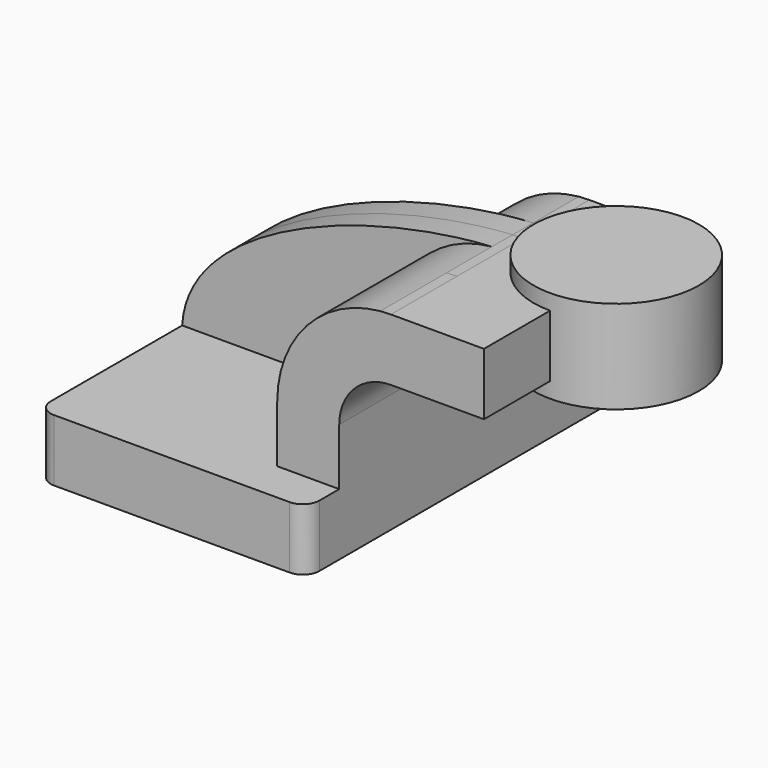
from build123d import *

# Parameters (mm, degrees)
F1_DEPTH = 63.5
F0_W     = 25.4
F0_H     = 19.05
F2_DEPTH = 25.4
F3_DEPTH = 7.9375
F5_R     = 5.08
F6_DEPTH = 25.4


with BuildPart() as f1:
    # F0 (on Front) → F1 (new body, symmetric)
    with BuildSketch(Plane.XZ):
        Polygon((22.225, 9.525), (-41.275, 9.525), (-41.275, -9.525), (41.275, -9.525), (41.275, 9.525), align=None)
    extrude(amount=F1_DEPTH, both=True)

    # F0 (on Front) → F2 (join, symmetric)
    with BuildSketch(Plane.XZ):
        with BuildLine():
            Line((22.225, 27.0002), (22.225, 9.525))
            Line((22.225, 9.525), (41.275, 9.525))
            Line((41.275, 9.525), (41.275, 27.0002))
            ThreePointArc((41.275, 27.0002), (45.9246798487, 38.2255201513), (57.15, 42.8752))
            Line((57.15, 42.8752), (60.325, 42.8752))
            Line((60.325, 42.8752), (60.325, 61.9252))
            Line((60.325, 61.9252), (57.15, 61.9252))
            add(Edge.make_bspline(
                [(53.8854342407, 61.7722898912), (54.9842067368, 61.8365871986), (56.0728453275, 61.8876096574), (57.15, 61.9252)],
                knots=[108.5245810491, 108.5245810491, 108.5245810491, 108.5245810491, 111.5045361635, 111.5045361635, 111.5045361635, 111.5045361635], degree=3))
            ThreePointArc((53.8854342407, 61.7722898912), (31.3258777096, 50.5133948686), (22.225, 27.0002))
        make_face()
        with Locations((73.025, 52.4002)):
            Rectangle(F0_W, F0_H)
    extrude(amount=F2_DEPTH, both=True)

    # F0 (on Front) → F3 (join, symmetric)
    with BuildSketch(Plane.XZ):
        with BuildLine():
            add(Edge.make_bspline(
                [(-41.275, 9.525), (-39.5856284224, 39.4828766469), (13.870125209, 59.4306981306), (53.8854342407, 61.7722898912)],
                knots=[0, 0, 0, 0, 108.5245810491, 108.5245810491, 108.5245810491, 108.5245810491], degree=3))
            Line((-41.275, 9.525), (22.225, 9.525))
            Line((22.225, 9.525), (22.225, 27.0002))
            ThreePointArc((22.225, 27.0002), (31.3258777096, 50.5133948686), (53.8854342407, 61.7722898912))
        make_face()
    extrude(amount=F3_DEPTH, both=True)

    # F0 (on Front) → F4 (revolve)
    with BuildSketch(Plane.XZ):
        Polygon((85.725, 66.675), (85.725, 61.9252), (85.725, 42.8752), (85.725, 38.1), (111.125, 38.1), (111.125, 66.675), align=None)
    revolve(axis=Axis((85.725, 0, 52.3875), (0, 0, 1)))

    # F5
    f5_edges = [f1.edges().sort_by_distance(p)[0] for p in [
        (41.275, -63.5, 0),
        (-41.275, -63.5, 0),
        (41.275, 63.5, 0),
        (-41.275, 63.5, 0),
    ]]
    fillet(f5_edges, radius=F5_R)

    # F6 (add): a face of the model
    f6_faces = [f1.faces().sort_by_distance(p)[0] for p in [
        (48.8772671015, -25.4, 41.5257592525),
    ]]
    extrude(f6_faces, amount=F6_DEPTH)


solid = f1.part
